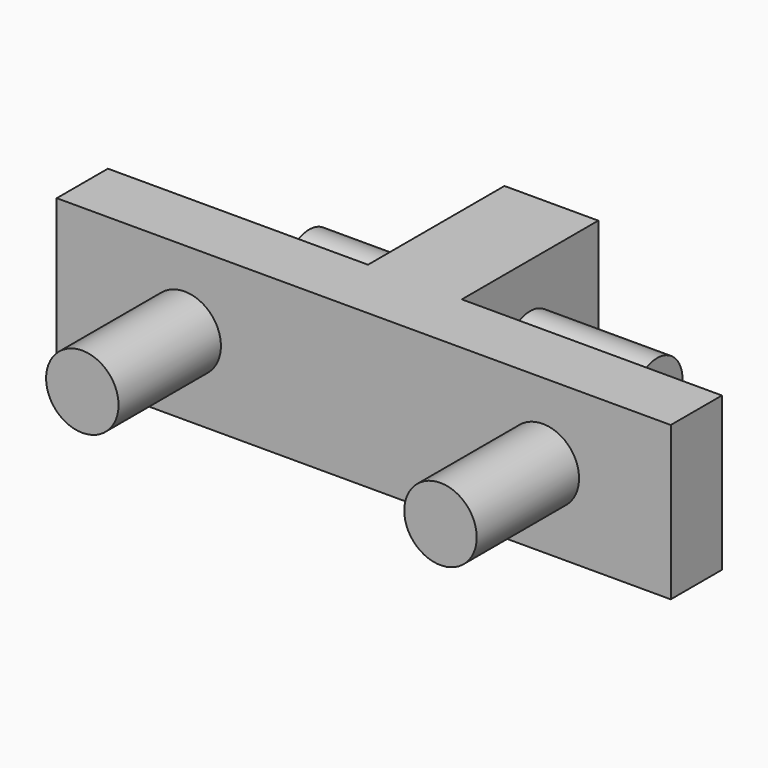
from build123d import *

# Parameters (mm, degrees)
F0_W     = 27.94
F0_H     = 45.72
F1_DEPTH = 19.05
F2_W     = 27.94
F2_H     = 45.72
F3_DEPTH = 50.8
F5_R     = 9.4615
F6_DEPTH = 37.846
F7_DEPTH = 37.846
F9_DEPTH = 38.1


with BuildPart() as f1:
    # F0 (on Front) → F1 (new body)
    with BuildSketch(Plane.XZ):
        Polygon((-8.658381, 40.910337), (-74.698381, 40.910337), (-74.698381, -4.809663), (2.771619, -4.809663), (2.771619, 40.910337), align=None)
        with Locations((16.741619, 18.050337)):
            Rectangle(F0_W, F0_H)
        Polygon((42.141619, 40.910337), (30.711619, 40.910337), (30.711619, -4.809663), (108.181619, -4.809663), (108.181619, 40.910337), align=None)
    extrude(amount=F1_DEPTH)

    # F2 (on face) → F3 (join)
    with BuildSketch(Plane(origin=(0, 0, 0), x_dir=(-1, 0, 0), z_dir=(0, 1, 0))):
        with Locations((-16.741619, 18.050337)):
            Rectangle(F2_W, F2_H)
    extrude(amount=F3_DEPTH)

    # F5 (on face) → F6 (join)
    with BuildSketch(Plane.YZ.offset(30.711619)):
        with Locations((25.4, 18.050337)):
            Circle(F5_R)
    extrude(amount=F6_DEPTH)

    # F4 (on face) → F7 (join)
    with BuildSketch(Plane(origin=(2.771619, 0, 0), x_dir=(0, -1, 0), z_dir=(-1, 0, 0))):
        with BuildLine():
            ThreePointArc((-34.8615, 18.050337), (-25.4, 8.588837), (-15.9385, 18.050337))
            ThreePointArc((-15.9385, 18.050337), (-25.4, 27.511837), (-34.8615, 18.050337))
        make_face()
    extrude(amount=F7_DEPTH)

    # F8 (on face) → F9 (join)
    with BuildSketch(Plane.XZ.offset(19.05)):
        with BuildLine():
            Line((-47.393381, 18.050337), (-36.598381, 18.050337))
            Line((-36.598381, 18.050337), (-25.803381, 18.050337))
            ThreePointArc((-25.803381, 18.050337), (-36.598381, 28.845337), (-47.393381, 18.050337))
        make_face()
        with BuildLine():
            Line((-25.803381, 18.050337), (-36.598381, 18.050337))
            Line((-36.598381, 18.050337), (-47.393381, 18.050337))
            ThreePointArc((-47.393381, 18.050337), (-36.598381, 7.255337), (-25.803381, 18.050337))
        make_face()
        with BuildLine():
            ThreePointArc((80.876619, 18.050337), (70.081619, 28.845337), (59.286619, 18.050337))
            Line((59.286619, 18.050337), (70.081619, 18.050337))
            Line((70.081619, 18.050337), (80.876619, 18.050337))
        make_face()
        with BuildLine():
            Line((70.081619, 18.050337), (59.286619, 18.050337))
            ThreePointArc((59.286619, 18.050337), (70.081619, 7.255337), (80.876619, 18.050337))
            Line((80.876619, 18.050337), (70.081619, 18.050337))
        make_face()
    extrude(amount=F9_DEPTH)


solid = f1.part
